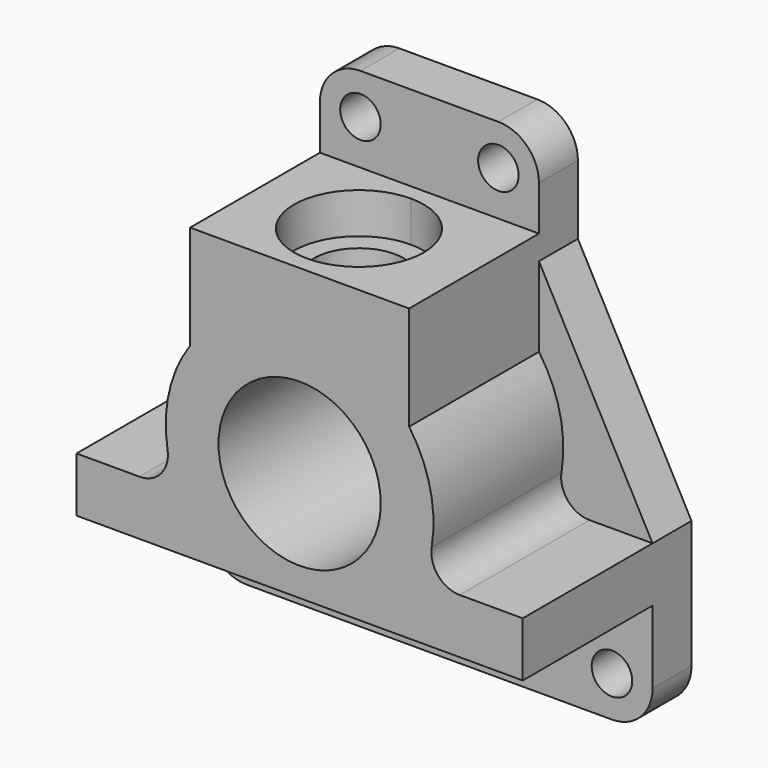
from build123d import *

# Parameters (mm, degrees)
F0_R     = 200
F1_DEPTH = 520
F0_R_2   = 50
F0_W     = 120
F0_H     = 280
F2_DEPTH = 120
F0_R_3   = 100
F3_DEPTH = 120
F5_DEPTH = 100
F6_R     = 110
F7_DEPTH = 289.1810463391


with BuildPart() as f1:
    # F0 (on Front) → F1 (new body)
    with BuildSketch(Plane.XZ):
        with BuildLine():
            Line((-60, 280), (60, 280))
            Line((60, 280), (550, 280))
            Line((550, 280), (550, 415))
            Line((550, 415), (394.6834174373, 415))
            ThreePointArc((394.6834174373, 415), (341.3155900504, 439.7023731306), (325.6138193858, 496.375))
            ThreePointArc((325.6138193858, 496.375), (321.7066673274, 623.5174822551), (270, 739.7366596101))
            Line((270, 739.7366596101), (270, 936.2514615059))
            Line((270, 936.2514615059), (270, 996.2514615059))
            Line((270, 996.2514615059), (-270, 996.2514615059))
            Line((-270, 996.2514615059), (-270, 936.2514615059))
            Line((-270, 936.2514615059), (-270, 739.7366596101))
            ThreePointArc((-270, 739.7366596101), (-321.7066673274, 623.5174822551), (-325.6138193858, 496.375))
            ThreePointArc((-325.6138193858, 496.375), (-341.3155900504, 439.7023731306), (-394.6834174373, 415))
            Line((-394.6834174373, 415), (-550, 415))
            Line((-550, 415), (-550, 280))
            Line((-550, 280), (-60, 280))
        make_face()
        with Locations((0, 550)):
            Circle(F0_R, mode=Mode.SUBTRACT)
    extrude(amount=F1_DEPTH)

    # F0 (on Front) → F2 (join)
    with BuildSketch(Plane.XZ):
        with BuildLine():
            Line((60, 0), (450, 0))
            ThreePointArc((450, 0), (520.7106781187, 29.2893218813), (550, 100))
            Line((550, 100), (550, 280))
            Line((550, 280), (60, 280))
            Line((60, 280), (60, 0))
        make_face()
        with Locations((450, 100)):
            Circle(F0_R_2, mode=Mode.SUBTRACT)
        with Locations((0, 140)):
            Rectangle(F0_W, F0_H)
        with BuildLine():
            Line((-60, 280), (60, 280))
            Line((60, 280), (550, 280))
            Line((550, 280), (550, 415))
            Line((550, 415), (394.6834174373, 415))
            ThreePointArc((394.6834174373, 415), (341.3155900504, 439.7023731306), (325.6138193858, 496.375))
            ThreePointArc((325.6138193858, 496.375), (321.7066673274, 623.5174822551), (270, 739.7366596101))
            Line((270, 739.7366596101), (270, 936.2514615059))
            Line((270, 936.2514615059), (270, 996.2514615059))
            Line((270, 996.2514615059), (-270, 996.2514615059))
            Line((-270, 996.2514615059), (-270, 936.2514615059))
            Line((-270, 936.2514615059), (-270, 739.7366596101))
            ThreePointArc((-270, 739.7366596101), (-321.7066673274, 623.5174822551), (-325.6138193858, 496.375))
            ThreePointArc((-325.6138193858, 496.375), (-341.3155900504, 439.7023731306), (-394.6834174373, 415))
            Line((-394.6834174373, 415), (-550, 415))
            Line((-550, 415), (-550, 280))
            Line((-550, 280), (-60, 280))
        make_face()
        with Locations((0, 550)):
            Circle(F0_R, mode=Mode.SUBTRACT)
        with BuildLine():
            Line((-450, 0), (-60, 0))
            Line((-60, 0), (-60, 280))
            Line((-60, 280), (-550, 280))
            Line((-550, 280), (-550, 100))
            ThreePointArc((-550, 100), (-520.7106781187, 29.2893218813), (-450, 0))
        make_face()
        with Locations((-450, 100)):
            Circle(F0_R_2, mode=Mode.SUBTRACT)
        with BuildLine():
            Line((394.6834174373, 415), (550, 415))
            Line((550, 415), (270, 936.2514615059))
            Line((270, 936.2514615059), (270, 739.7366596101))
            ThreePointArc((270, 739.7366596101), (321.7066673274, 623.5174822551), (325.6138193858, 496.375))
            ThreePointArc((325.6138193858, 496.375), (341.3155900504, 439.7023731306), (394.6834174373, 415))
        make_face()
        with BuildLine():
            Line((-270, 936.2514615059), (-550, 415))
            Line((-550, 415), (-394.6834174373, 415))
            ThreePointArc((-394.6834174373, 415), (-341.3155900504, 439.7023731306), (-325.6138193858, 496.375))
            ThreePointArc((-325.6138193858, 496.375), (-321.7066673274, 623.5174822551), (-270, 739.7366596101))
            Line((-270, 739.7366596101), (-270, 936.2514615059))
        make_face()
        with BuildLine():
            Line((-270, 996.2514615059), (270, 996.2514615059))
            Line((270, 996.2514615059), (270, 1106.2514615059))
            ThreePointArc((270, 1106.2514615059), (240.7106781187, 1176.9621396245), (170, 1206.2514615059))
            Line((170, 1206.2514615059), (-170, 1206.2514615059))
            ThreePointArc((-170, 1206.2514615059), (-240.7106781187, 1176.9621396245), (-270, 1106.2514615059))
            Line((-270, 1106.2514615059), (-270, 996.2514615059))
        make_face()
        with Locations((-170, 1106.2514615059)):
            Circle(F0_R_2, mode=Mode.SUBTRACT)
        with Locations((170, 1106.2514615059)):
            Circle(F0_R_2, mode=Mode.SUBTRACT)
    extrude(amount=F2_DEPTH)

    # F0 (on Front) → F3 (join)
    with BuildSketch(Plane.XZ):
        with Locations((0, 550)):
            Circle(F0_R)
        with Locations((0, 550)):
            Circle(F0_R_3, mode=Mode.SUBTRACT)
    extrude(amount=F3_DEPTH)

    # F4 (on face) → F5 (cut)
    with BuildSketch(Plane.XY.offset(996.2514615059)):
        with BuildLine():
            ThreePointArc((146.1913956702, -320), (99.32848066, -206.8629150102), (-13.8086043298, -160))
            Line((-13.8086043298, -160), (-13.8086043298, -210))
            ThreePointArc((-13.8086043298, -210), (63.9731416007, -242.2182540695), (96.1913956702, -320))
            ThreePointArc((96.1913956702, -320), (63.9731416007, -397.7817459305), (-13.8086043298, -430))
            Line((-13.8086043298, -430), (-13.8086043298, -480))
            ThreePointArc((-13.8086043298, -480), (99.32848066, -433.1370849898), (146.1913956702, -320))
        make_face()
        with BuildLine():
            Line((-13.8086043298, -210), (-13.8086043298, -160))
            ThreePointArc((-13.8086043298, -160), (-173.8086043298, -320), (-13.8086043298, -480))
            Line((-13.8086043298, -480), (-13.8086043298, -430))
            ThreePointArc((-13.8086043298, -430), (-123.8086043298, -320), (-13.8086043298, -210))
        make_face()
    extrude(amount=-F5_DEPTH, mode=Mode.SUBTRACT)

    # F6 (on face) → F7 (cut, through all)
    with BuildSketch(Plane.XY.offset(996.2514615059)):
        with Locations((-13.8086043298, -320)):
            Circle(F6_R)
    extrude(amount=-F7_DEPTH, mode=Mode.SUBTRACT)


solid = f1.part
